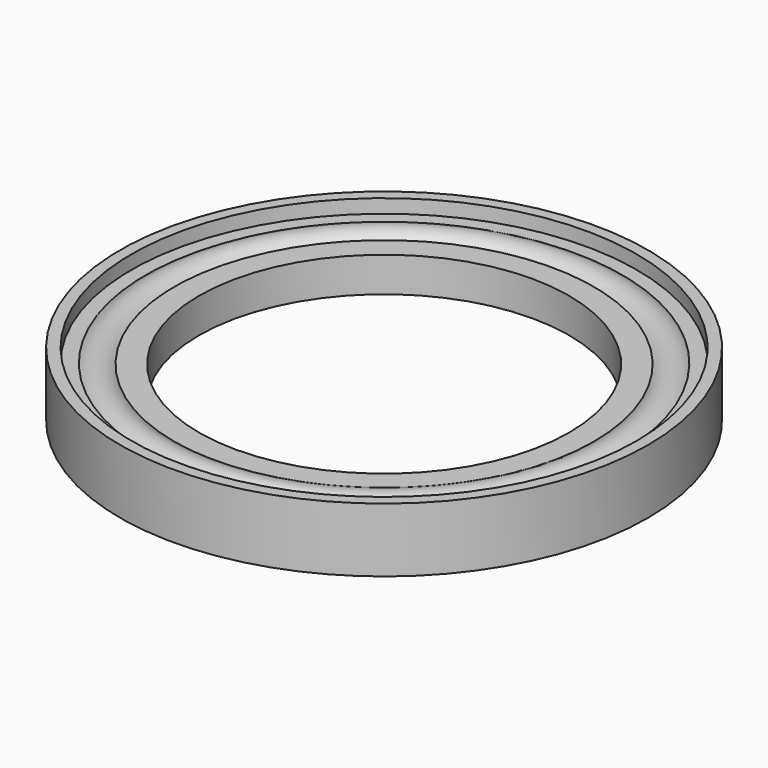
from build123d import *


with BuildPart() as f1:
    # F0 (on Front) → F1 (revolve)
    with BuildSketch(Plane.XZ):
        with BuildLine():
            ThreePointArc((22.885192, 1.6), (22.01, 3.5), (22.885192, 5.4))
            Line((22.885192, 5.4), (20.2, 5.4))
            Line((20.2, 5.4), (20.2, 1.6))
            Line((20.2, 1.6), (22.885192, 1.6))
        make_face()
        with BuildLine():
            ThreePointArc((27.01, 3.5), (26.746068, 4.618034), (26.01, 5.5))
            ThreePointArc((26.01, 5.5), (24.430036, 5.998721), (22.885192, 5.4))
            ThreePointArc((22.885192, 5.4), (22.01, 3.5), (22.885192, 1.6))
            ThreePointArc((22.885192, 1.6), (24.430036, 1.001279), (26.01, 1.5))
            ThreePointArc((26.01, 1.5), (26.746068, 2.381966), (27.01, 3.5))
        make_face()
        with BuildLine():
            Line((28.8, 0), (28.8, 7))
            Line((28.8, 7), (27.57, 7))
            Line((27.57, 7), (27.57, 5.5))
            Line((27.57, 5.5), (26.01, 5.5))
            ThreePointArc((26.01, 5.5), (26.746068, 4.618034), (27.01, 3.5))
            ThreePointArc((27.01, 3.5), (26.746068, 2.381966), (26.01, 1.5))
            Line((26.01, 1.5), (27.57, 1.5))
            Line((27.57, 1.5), (27.57, 0))
            Line((27.57, 0), (28.8, 0))
        make_face()
    revolve(axis=Axis((0, 0, 3.5), (0, 0, -1)))


solid = f1.part
